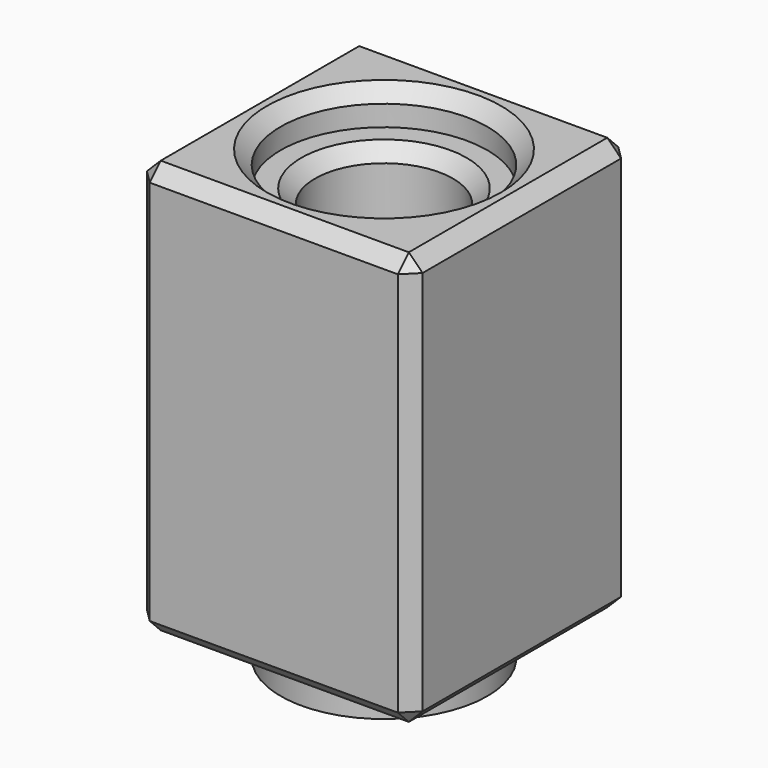
from build123d import *

# Parameters (mm, degrees)
F0_W     = 40
F0_H     = 40
F1_DEPTH = 60
F2_R     = 15
F3_DEPTH = 60
F5_START = -5
F4_R     = 15
F4_R_2   = 10
F5_DEPTH = 60
F6_SIZE  = 2


with BuildPart() as f1:
    # F0 (on Top) → F1 (new body)
    with BuildSketch(Plane.XY):
        Rectangle(F0_W, F0_H)
    extrude(amount=F1_DEPTH)

    # F2 (on face) → F3 (cut, through all)
    with BuildSketch(Plane.XY.offset(60)):
        Circle(F2_R)
    extrude(amount=-F3_DEPTH, mode=Mode.SUBTRACT)

    # F4 (on face) → F5 (join)
    with BuildSketch(Plane.XY.offset(60).offset(F5_START)):
        Circle(F4_R)
        Circle(F4_R_2, mode=Mode.SUBTRACT)
    extrude(amount=-F5_DEPTH)

    # F6
    f6_edges = [f1.edges().sort_by_distance(p)[0] for p in [
        (-20, -20, 30),
        (20, -20, 30),
        (0, -20, 60),
        (0, -20, 0),
        (20, 0, 0),
        (20, 20, 30),
        (20, 0, 60),
        (-20, 0, 60),
        (0, 20, 60),
        (-20, 20, 30),
        (-20, 0, 0),
        (0, 20, 0),
        (-15, 0, 60),
        (-10, 0, 55),
    ]]
    chamfer(f6_edges, length=F6_SIZE)


solid = f1.part
